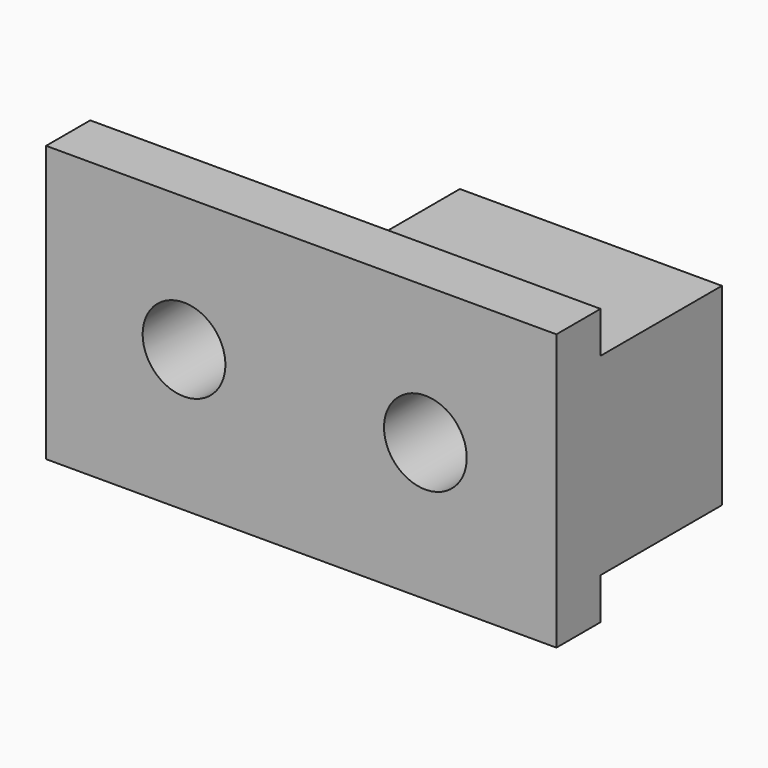
from build123d import *

# Parameters (mm, degrees)
F0_W      = 117.475
F0_H      = 63.5
F1_DEPTH  = 12.7
F2_W      = 117.475
F2_H      = 44.45
F3_DEPTH  = 12.7
F4_W      = 60.325
F4_H      = 44.45
F5_DEPTH  = 22.225
F6_R      = 9.525
F7_DEPTH  = 25.401
F7_FACE_R = 9.525
F8_DEPTH  = 22.226


with BuildPart() as f1:
    # F0 (on Front) → F1 (new body)
    with BuildSketch(Plane.XZ):
        with Locations((89.35833, 31.755619)):
            Rectangle(F0_W, F0_H)
    extrude(amount=F1_DEPTH)

    # F2 (on face) → F3 (join)
    with BuildSketch(Plane(origin=(0, 0, 0), x_dir=(-1, 0, 0), z_dir=(0, 1, 0))):
        with Locations((-89.35833, 31.755619)):
            Rectangle(F2_W, F2_H)
    extrude(amount=F3_DEPTH)

    # F4 (on face) → F5 (join)
    with BuildSketch(Plane(origin=(0, 12.7, 0), x_dir=(-1, 0, 0), z_dir=(0, 1, 0))):
        with Locations((-117.93333, 31.755619)):
            Rectangle(F4_W, F4_H)
    extrude(amount=F5_DEPTH)

    # F6 (on face) → F7 (cut, through all)
    with BuildSketch(Plane(origin=(0, 12.7, 0), x_dir=(-1, 0, 0), z_dir=(0, 1, 0))):
        with Locations((-62.37083, 32.547984)):
            Circle(F6_R)
        with Locations((-117.93333, 31.755619)):
            Circle(F6_R)
    extrude(amount=-F7_DEPTH, mode=Mode.SUBTRACT)

    # F7_face (on face) → F8 (cut, through all)
    with BuildSketch(Plane(origin=(117.93333, 12.7, 31.755619), x_dir=(-1, 0, 0), z_dir=(0, -1, 0))):
        Circle(F7_FACE_R)
    extrude(amount=-F8_DEPTH, mode=Mode.SUBTRACT)


solid = f1.part
